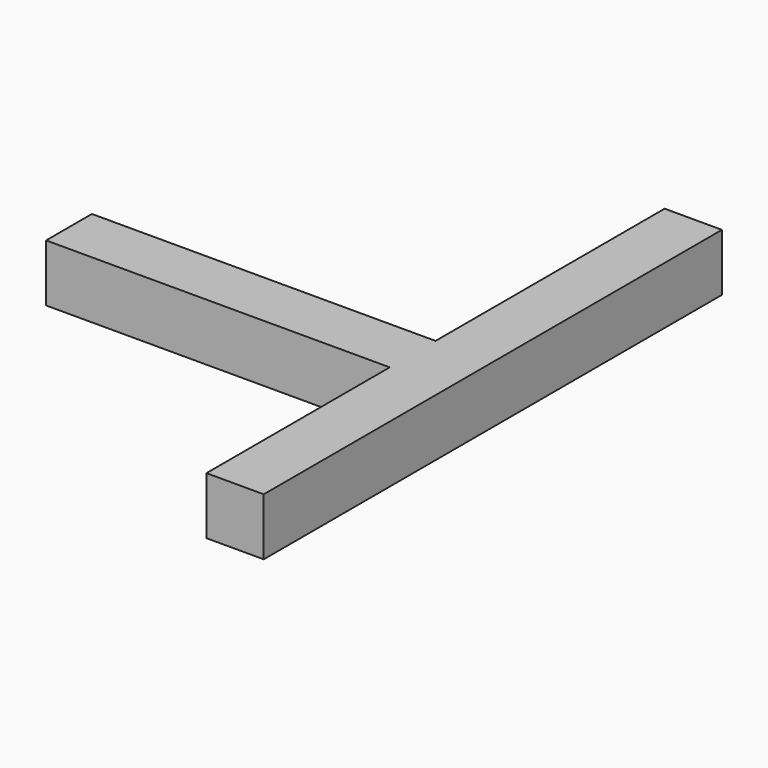
from build123d import *

# Parameters (mm, degrees)
F0_W     = 127
F0_H     = 12.7
F1_DEPTH = 12.7
F2_W     = 76.2
F2_H     = 12.7
F3_DEPTH = 12.7


with BuildPart() as f1:
    # F0 (on Right) → F1 (new body)
    with BuildSketch(Plane.YZ):
        Rectangle(F0_W, F0_H)
    extrude(amount=F1_DEPTH)

    # F2 (on Front) → F3 (join)
    with BuildSketch(Plane.XZ):
        with Locations((-38.1, 0)):
            Rectangle(F2_W, F2_H)
    extrude(amount=F3_DEPTH)


solid = f1.part
